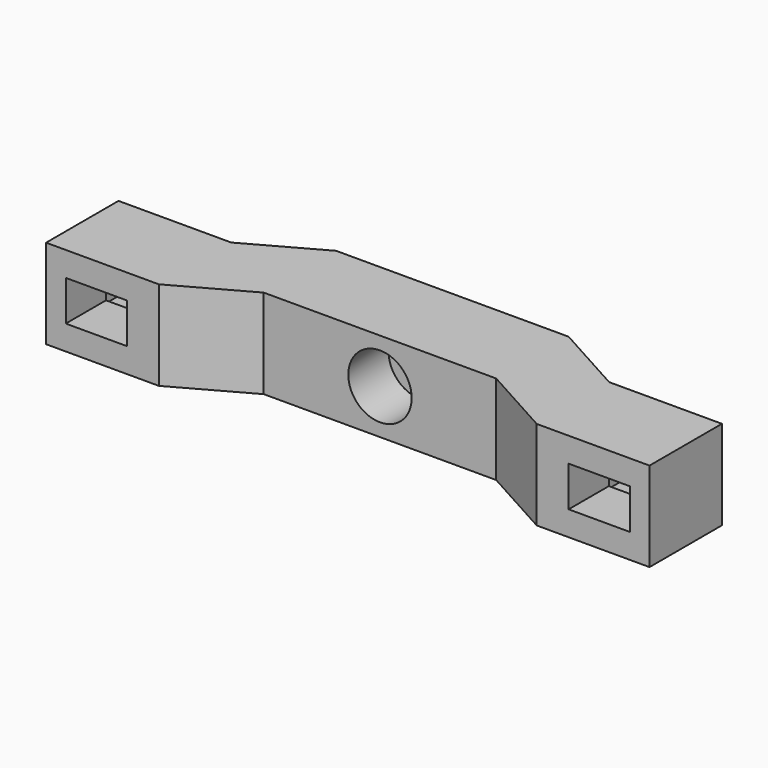
from build123d import *

# Parameters (mm, degrees)
F1_DEPTH = 4.445
F2_R     = 2
F2_W     = 6.084966
F2_H     = 4
F3_DEPTH = 25
F4_R     = 3.15
F5_DEPTH = 5
F6_W     = 7.922152
F6_H     = 6
F7_DEPTH = 4


with BuildPart() as f1:
    # F0 (on Top) → F1 (new body, symmetric)
    with BuildSketch(Plane.XY):
        Polygon((-30, 9), (-30, 0), (-18.787624, 0), (-11.558056, 4), (0, 4), (11.558056, 4), (18.787624, 0), (30, 0), (30, 9), (18.787624, 9), (11.558056, 13), (0, 13), (-11.558056, 13), (-18.787624, 9), align=None)
    extrude(amount=F1_DEPTH, both=True)

    # F2 (on face) → F3 (cut)
    with BuildSketch(Plane(origin=(0, 13, 0), x_dir=(-1, 0, 0), z_dir=(0, 1, 0))):
        Circle(F2_R)
        with Locations((-25, 0)):
            Rectangle(F2_W, F2_H)
        with Locations((25, 0)):
            Rectangle(F2_W, F2_H)
    extrude(amount=-F3_DEPTH, mode=Mode.SUBTRACT)

    # F4 (on face) → F5 (cut)
    with BuildSketch(Plane.XZ.offset(-4)):
        Circle(F4_R)
    extrude(amount=-F5_DEPTH, mode=Mode.SUBTRACT)

    # F6 (on face) → F7 (cut)
    with BuildSketch(Plane(origin=(0, 9, 0), x_dir=(-1, 0, 0), z_dir=(0, 1, 0))):
        with Locations((-24.973184, 0)):
            Rectangle(F6_W, F6_H)
        with Locations((24.973184, 0)):
            Rectangle(F6_W, F6_H)
    extrude(amount=-F7_DEPTH, mode=Mode.SUBTRACT)


solid = f1.part
